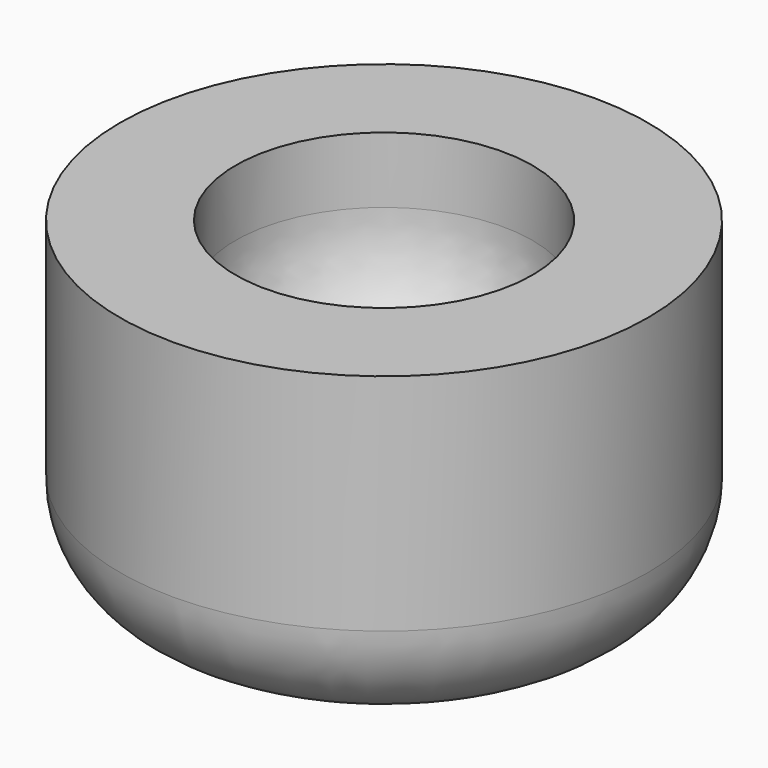
from build123d import *

# Parameters (mm, degrees)
F2_R = 5.08


with BuildPart() as f1:
    # F0 (on Front) → F1 (revolve)
    with BuildSketch(Plane.XZ):
        with BuildLine():
            Line((0, 5.55625), (0, 0))
            Line((0, 0), (12.7, 0))
            Line((12.7, 0), (12.7, 15.875))
            Line((12.7, 15.875), (7.14375, 15.875))
            Line((7.14375, 15.875), (7.14375, 12.7))
            ThreePointArc((7.14375, 12.7), (5.051394, 7.648606), (0, 5.55625))
        make_face()
    revolve(axis=Axis((0, 0, 2.778125), (0, 0, 1)))

    # F2
    f2_edges = [f1.edges().sort_by_distance(p)[0] for p in [
        (-12.7, 0, 0),
    ]]
    fillet(f2_edges, radius=F2_R)


solid = f1.part
